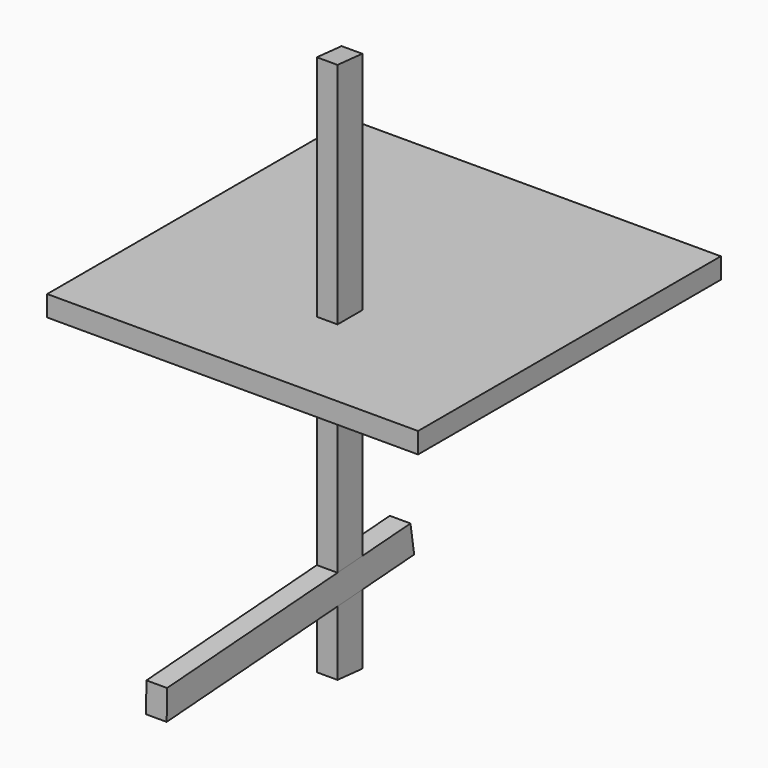
from build123d import *

# Parameters (mm, degrees)
F1_DEPTH = 25.4
F2_W     = 455.63227
F2_H     = 464.921206
F3_DEPTH = 25.4
F5_DEPTH = 25.4
F7_DEPTH = 25.4


with BuildPart() as f1:
    # F0 (on Right) → F1 (new body)
    with BuildSketch(Plane.YZ):
        Polygon((-71.910563, 302.748341), (-109.865581, 306.068975), (-109.865581, -359.093525), (-71.910563, -362.414159), (-71.910563, 256.125829), align=None)
    extrude(amount=F1_DEPTH)


with BuildPart() as f3:
    # F2 (on Top) → F3 (new body)
    with BuildSketch(Plane.XY):
        with Locations((-3.759533, -2.061322)):
            Rectangle(F2_W, F2_H)
    extrude(amount=F3_DEPTH)


with BuildPart() as f5:
    # F4 (on face) → F5 (new body)
    with BuildSketch(Plane.YZ):
        Polygon((7.824159, -271.337298), (2.131104, -235.355858), (-371.610405, -261.430885), (-372.251952, -297.854275), align=None)
    extrude(amount=F5_DEPTH)


with BuildPart() as f7:
    # F6 (on Right) → F7 (new body)
    with BuildSketch(Plane.YZ):
        Polygon((151.066989, -20.993726), (145.090056, 16.781892), (-145.98576, -3.525753), (-146.659298, -41.765357), align=None)
    extrude(amount=F7_DEPTH)


solid = Compound([f1.part, f3.part, f5.part, f7.part])
